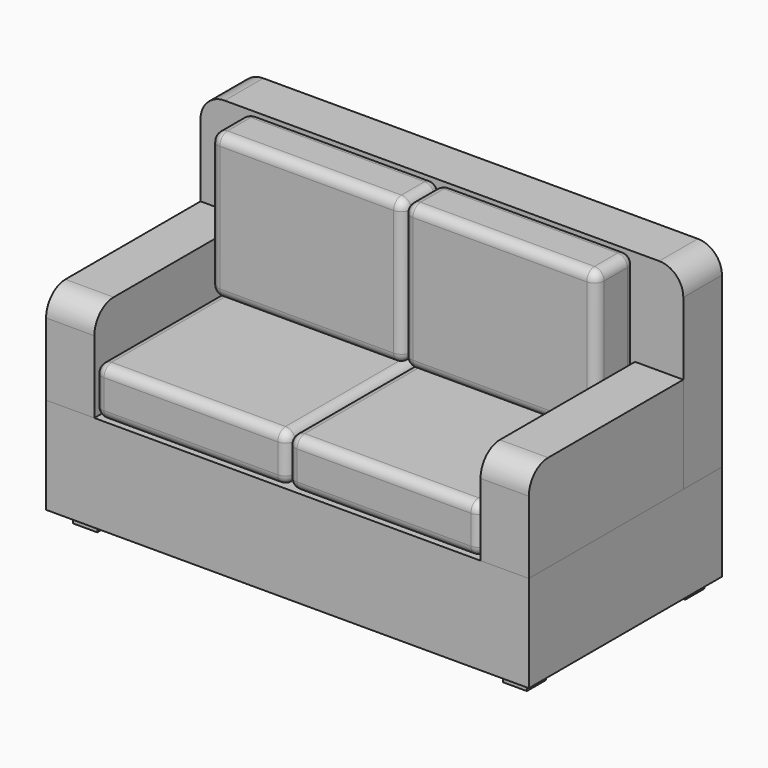
from build123d import *

# Parameters (mm, degrees)
BOX_W        = 200
BOX_H        = 100
BOX_DEPTH    = 40
BOX001_W     = 20
BOX001_H     = 80
BOX001_DEPTH = 40
FILLET_R     = 10
BOX002_W     = 20
BOX002_H     = 80
BOX002_DEPTH = 40
FILLET001_R  = 10
BOX003_W     = 200
BOX003_H     = 20
BOX003_DEPTH = 80
FILLET002_R  = 10
BOX004_W     = 80
BOX004_H     = 80
BOX004_DEPTH = 20
FILLET003_R  = 4
BOX005_W     = 80
BOX005_H     = 80
BOX005_DEPTH = 20
FILLET004_R  = 4
BOX006_W     = 80
BOX006_H     = 20
BOX006_DEPTH = 60
FILLET005_R  = 4
BOX007_W     = 80
BOX007_H     = 20
BOX007_DEPTH = 60
FILLET006_R  = 4
BOX008_W     = 10
BOX008_H     = 10
BOX008_DEPTH = 4
BOX009_W     = 10
BOX009_H     = 10
BOX009_DEPTH = 4
BOX010_W     = 10
BOX010_H     = 10
BOX010_DEPTH = 4
BOX011_W     = 10
BOX011_H     = 10
BOX011_DEPTH = 4


with BuildPart() as cube:
    # Box → Box (new body)
    with BuildSketch(Plane.XY):
        with Locations((100, 50)):
            Rectangle(BOX_W, BOX_H)
    extrude(amount=BOX_DEPTH)


with BuildPart() as fillet_body:
    # Box001 → Box001 (new body)
    with BuildSketch(Plane.XY.offset(40)):
        with Locations((10, 40)):
            Rectangle(BOX001_W, BOX001_H)
    extrude(amount=BOX001_DEPTH)

    # Fillet
    fillet_edges = [fillet_body.edges().sort_by_distance(p)[0] for p in [
        (10, 0, 80),
    ]]
    fillet(fillet_edges, radius=FILLET_R)


with BuildPart() as fillet001:
    # Box002 → Box002 (new body)
    with BuildSketch(Plane.XY.offset(40)):
        with Locations((10, 40)):
            Rectangle(BOX002_W, BOX002_H)
    extrude(amount=BOX002_DEPTH)

    # Fillet001
    fillet001_edges = [fillet001.edges().sort_by_distance(p)[0] for p in [
        (10, 0, 80),
    ]]
    fillet(fillet001_edges, radius=FILLET001_R)


with BuildPart() as fillet001_1:
    # Fillet001 placement: moved
    add(fillet001.part.moved(Location((180, 0, 0))))


with BuildPart() as fillet002:
    # Box003 → Box003 (new body)
    with BuildSketch(Plane(origin=(0, 80, 40), x_dir=(1, 0, 0), z_dir=(0, 0, 1))):
        with Locations((100, 10)):
            Rectangle(BOX003_W, BOX003_H)
    extrude(amount=BOX003_DEPTH)

    # Fillet002
    fillet002_edges = [fillet002.edges().sort_by_distance(p)[0] for p in [
        (0, 90, 120),
        (200, 90, 120),
    ]]
    fillet(fillet002_edges, radius=FILLET002_R)


with BuildPart() as fillet003:
    # Box004 → Box004 (new body)
    with BuildSketch(Plane(origin=(20, 0, 40), x_dir=(1, 0, 0), z_dir=(0, 0, 1))):
        with Locations((40, 40)):
            Rectangle(BOX004_W, BOX004_H)
    extrude(amount=BOX004_DEPTH)

    # Fillet003
    fillet003_edges = [fillet003.edges().sort_by_distance(p)[0] for p in [
        (20, 0, 50),
        (20, 40, 60),
        (20, 80, 50),
        (20, 40, 40),
        (100, 0, 50),
        (100, 40, 60),
        (100, 80, 50),
        (100, 40, 40),
        (60, 0, 40),
        (60, 0, 60),
        (60, 80, 40),
        (60, 80, 60),
    ]]
    fillet(fillet003_edges, radius=FILLET003_R)


with BuildPart() as fillet003_1:
    # Fillet003 placement: moved
    add(fillet003.part.moved(Location((80, 0, 0))))


with BuildPart() as fillet004:
    # Box005 → Box005 (new body)
    with BuildSketch(Plane(origin=(20, 0, 40), x_dir=(1, 0, 0), z_dir=(0, 0, 1))):
        with Locations((40, 40)):
            Rectangle(BOX005_W, BOX005_H)
    extrude(amount=BOX005_DEPTH)

    # Fillet004
    fillet004_edges = [fillet004.edges().sort_by_distance(p)[0] for p in [
        (20, 0, 50),
        (20, 40, 60),
        (20, 80, 50),
        (20, 40, 40),
        (100, 0, 50),
        (100, 40, 60),
        (100, 80, 50),
        (100, 40, 40),
        (60, 0, 40),
        (60, 0, 60),
        (60, 80, 40),
        (60, 80, 60),
    ]]
    fillet(fillet004_edges, radius=FILLET004_R)


with BuildPart() as fillet005:
    # Box006 → Box006 (new body)
    with BuildSketch(Plane(origin=(20, 60, 60), x_dir=(1, 0, 0), z_dir=(0, 0, 1))):
        with Locations((40, 10)):
            Rectangle(BOX006_W, BOX006_H)
    extrude(amount=BOX006_DEPTH)

    # Fillet005
    fillet005_edges = [fillet005.edges().sort_by_distance(p)[0] for p in [
        (20, 60, 90),
        (20, 70, 120),
        (20, 80, 90),
        (20, 70, 60),
        (100, 60, 90),
        (100, 70, 120),
        (100, 80, 90),
        (100, 70, 60),
        (60, 60, 60),
        (60, 60, 120),
        (60, 80, 60),
        (60, 80, 120),
    ]]
    fillet(fillet005_edges, radius=FILLET005_R)


with BuildPart() as fillet006:
    # Box007 → Box007 (new body)
    with BuildSketch(Plane(origin=(20, 60, 60), x_dir=(1, 0, 0), z_dir=(0, 0, 1))):
        with Locations((40, 10)):
            Rectangle(BOX007_W, BOX007_H)
    extrude(amount=BOX007_DEPTH)

    # Fillet006
    fillet006_edges = [fillet006.edges().sort_by_distance(p)[0] for p in [
        (20, 60, 90),
        (20, 70, 120),
        (20, 80, 90),
        (20, 70, 60),
        (100, 60, 90),
        (100, 70, 120),
        (100, 80, 90),
        (100, 70, 60),
        (60, 60, 60),
        (60, 60, 120),
        (60, 80, 60),
        (60, 80, 120),
    ]]
    fillet(fillet006_edges, radius=FILLET006_R)


with BuildPart() as fillet006_1:
    # Fillet006 placement: moved
    add(fillet006.part.moved(Location((80, 0, 0))))


with BuildPart() as cube008:
    # Box008 → Box008 (new body)
    with BuildSketch(Plane(origin=(8, 4, -4), x_dir=(1, 0, 0), z_dir=(0, 0, 1))):
        with Locations((5, 5)):
            Rectangle(BOX008_W, BOX008_H)
    extrude(amount=BOX008_DEPTH)


with BuildPart() as cube009:
    # Box009 → Box009 (new body)
    with BuildSketch(Plane(origin=(4, 86, -4), x_dir=(1, 0, 0), z_dir=(0, 0, 1))):
        with Locations((5, 5)):
            Rectangle(BOX009_W, BOX009_H)
    extrude(amount=BOX009_DEPTH)


with BuildPart() as cube010:
    # Box010 → Box010 (new body)
    with BuildSketch(Plane(origin=(186, 4, -4), x_dir=(1, 0, 0), z_dir=(0, 0, 1))):
        with Locations((5, 5)):
            Rectangle(BOX010_W, BOX010_H)
    extrude(amount=BOX010_DEPTH)


with BuildPart() as cube011:
    # Box011 → Box011 (new body)
    with BuildSketch(Plane(origin=(186, 86, -4), x_dir=(1, 0, 0), z_dir=(0, 0, 1))):
        with Locations((5, 5)):
            Rectangle(BOX011_W, BOX011_H)
    extrude(amount=BOX011_DEPTH)


solid = Compound([cube.part, fillet_body.part, fillet001_1.part, fillet002.part, fillet003_1.part, fillet004.part, fillet005.part, fillet006_1.part, cube008.part, cube009.part, cube010.part, cube011.part])
